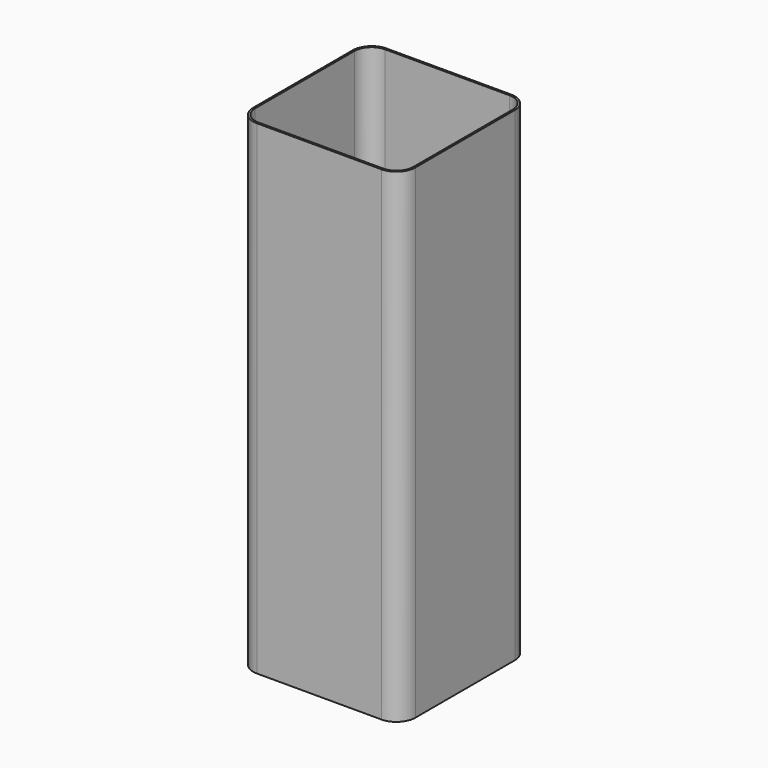
from build123d import *

# Parameters (mm, degrees)
F0_W     = 86
F0_H     = 86
F1_DEPTH = 257
F2_R     = 10
F3_T     = -1


with BuildPart() as f1:
    # F0 (on Top) → F1 (new body)
    with BuildSketch(Plane.XY):
        Rectangle(F0_W, F0_H)
    extrude(amount=F1_DEPTH)

    # F2
    f2_edges = [f1.edges().sort_by_distance(p)[0] for p in [
        (43, 43, 128.5),
        (-43, -43, 128.5),
        (43, -43, 128.5),
        (-43, 43, 128.5),
    ]]
    fillet(f2_edges, radius=F2_R)

    # F3
    f3_openings = [f1.faces().sort_by_distance(p)[0] for p in [
        (0, 0, 257),
        (0, 0, 0),
    ]]
    offset(amount=F3_T, openings=f3_openings)


solid = f1.part
